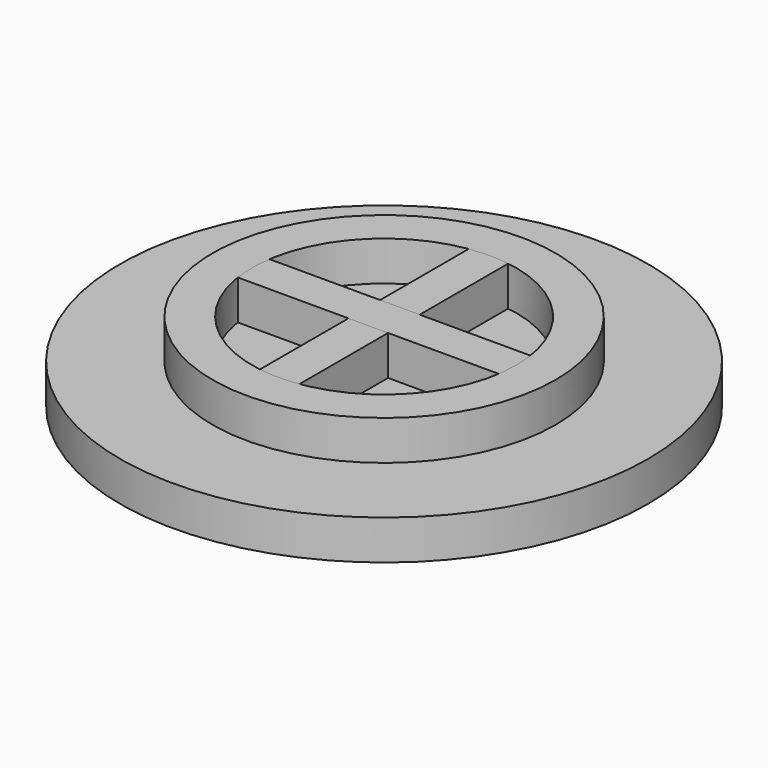
from build123d import *

# Parameters (mm, degrees)
SKETCH_R      = 10
PAD_DEPTH     = 1.5
SKETCH001_W   = 12
SKETCH001_H   = 1.5
SKETCH001_W_2 = 1.5
SKETCH001_H_2 = 12
PAD001_DEPTH  = 1.5
SKETCH002_R   = 10
PAD002_DEPTH  = 1.5
SKETCH003_W   = 12
SKETCH003_H   = 1.5
PAD003_DEPTH  = 1.5
SKETCH004_R   = 10
PAD004_DEPTH  = 1.5
SKETCH005_R   = 6.5
SKETCH005_R_2 = 5
PAD005_DEPTH  = 1.5


with BuildPart() as obj1:
    # Sketch → Pad (new body)
    with BuildSketch(Plane.XY):
        Circle(SKETCH_R)
    extrude(amount=PAD_DEPTH)

    # Sketch001 (on Face3 of Pad) → Pad001 (join)
    with BuildSketch(Plane.XY.offset(1.5)):
        Rectangle(SKETCH001_W, SKETCH001_H)
        Rectangle(SKETCH001_W_2, SKETCH001_H_2)
    extrude(amount=PAD001_DEPTH)


with BuildPart() as obj2:
    # Sketch002 → Pad002 (new body)
    with BuildSketch(Plane.XY):
        Circle(SKETCH002_R)
    extrude(amount=PAD002_DEPTH)

    # Sketch003 (on Face3 of Pad002) → Pad003 (join)
    with BuildSketch(Plane.XY.offset(1.5)):
        Rectangle(SKETCH003_W, SKETCH003_H)
    extrude(amount=PAD003_DEPTH)


with BuildPart() as obj3:
    # Sketch004 → Pad004 (new body)
    with BuildSketch(Plane.XY):
        Circle(SKETCH004_R)
    extrude(amount=PAD004_DEPTH)

    # Sketch005 (on Face3 of Pad004) → Pad005 (join)
    with BuildSketch(Plane.XY.offset(1.5)):
        Circle(SKETCH005_R)
        Circle(SKETCH005_R_2, mode=Mode.SUBTRACT)
    extrude(amount=PAD005_DEPTH)


solid = Compound([obj1.part, obj2.part, obj3.part])
